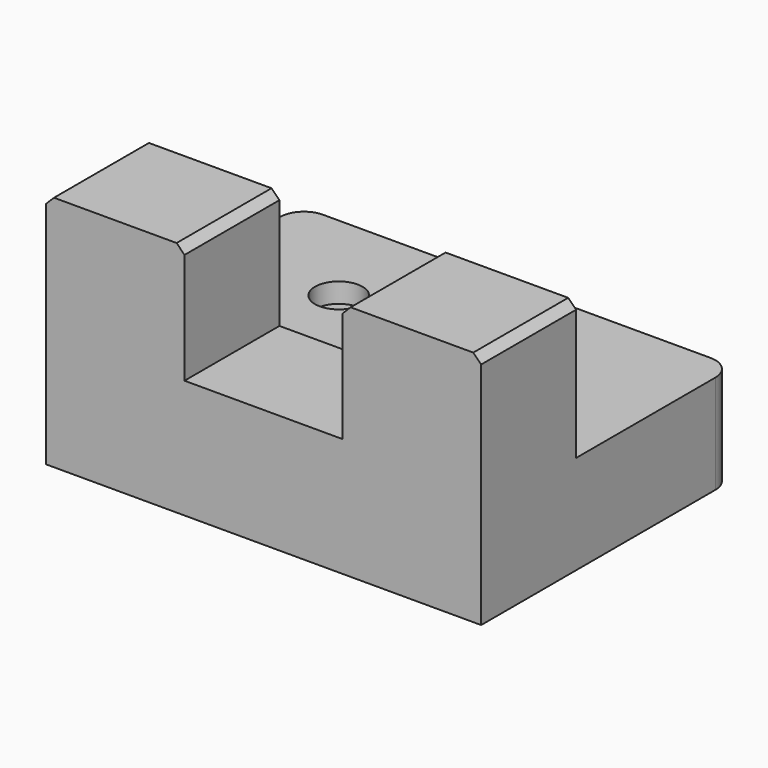
from build123d import *

# Parameters (mm, degrees)
F0_R     = 6
F0_R_2   = 3
F1_DEPTH = 20
F2_DEPTH = 25
F3_DEPTH = 60
F0_W     = 40
F0_H     = 30
F4_DEPTH = 30
F5_SIZE  = 2
F6_R     = 6


with BuildPart() as f1:
    # F0 (on Top) → F1 (new body)
    with BuildSketch(Plane.XY):
        with Locations((30, 55)):
            Circle(F0_R)
        with Locations((30, 55)):
            Circle(F0_R_2, mode=Mode.SUBTRACT)
    extrude(amount=F1_DEPTH)


with BuildPart() as f1b:
    # F0 (on Top) → F1, piece 2 (new body)
    with BuildSketch(Plane.XY):
        with Locations((80, 55)):
            Circle(F0_R)
        with Locations((80, 55)):
            Circle(F0_R_2, mode=Mode.SUBTRACT)
    extrude(amount=F1_DEPTH)


with BuildPart() as f2:
    # F0 (on Top) → F2 (new body)
    with BuildSketch(Plane.XY):
        Polygon((0, 30), (35, 30), (75, 30), (110, 30), (110, 80), (0, 80), align=None)
        with Locations((30, 55)):
            Circle(F0_R, mode=Mode.SUBTRACT)
        with Locations((80, 55)):
            Circle(F0_R, mode=Mode.SUBTRACT)
    extrude(amount=F2_DEPTH)

    # F0 (on Top) → F3 (join)
    with BuildSketch(Plane.XY):
        Polygon((0, 0), (6, 0), (35, 0), (35, 30), (0, 30), (0, 6), align=None)
        Polygon((75, 30), (75, 0), (104, 0), (110, 0), (110, 6), (110, 30), align=None)
    extrude(amount=F3_DEPTH)

    # F0 (on Top) → F4 (join)
    with BuildSketch(Plane.XY):
        with Locations((55, 15)):
            Rectangle(F0_W, F0_H)
    extrude(amount=F4_DEPTH)

    # F5
    f5_edges = [f2.edges().sort_by_distance(p)[0] for p in [
        (110, 15, 60),
        (75, 15, 60),
        (35, 15, 60),
        (0, 15, 60),
    ]]
    chamfer(f5_edges, length=F5_SIZE)

    # F6
    f6_edges = [f2.edges().sort_by_distance(p)[0] for p in [
        (0, 80, 12.5),
        (110, 80, 12.5),
    ]]
    fillet(f6_edges, radius=F6_R)


solid = Compound([f1.part, f1b.part, f2.part])
